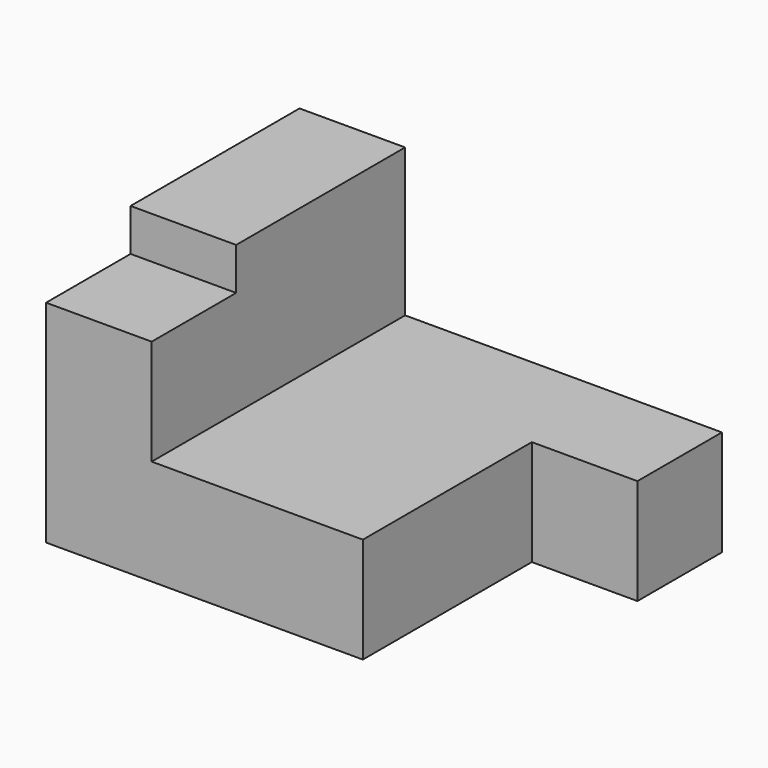
from build123d import *

# Parameters (mm, degrees)
F1_DEPTH = 38.1
F2_W     = 12.7
F2_H     = 12.7
F3_DEPTH = 5.08
F4_W     = 12.7
F4_H     = 25.4
F5_DEPTH = 12.7


with BuildPart() as f1:
    # F0 (on Front) → F1 (new body)
    with BuildSketch(Plane.XZ):
        Polygon((-77.360854, -0.949678), (-77.360854, -31.429678), (-26.560854, -31.429678), (-26.560854, -18.729678), (-64.660854, -18.729678), (-64.660854, -0.949678), align=None)
    extrude(amount=F1_DEPTH)

    # F2 (on face) → F3 (cut)
    with BuildSketch(Plane.XY.offset(-0.949678)):
        with Locations((-71.010854, -31.75)):
            Rectangle(F2_W, F2_H)
    extrude(amount=-F3_DEPTH, mode=Mode.SUBTRACT)

    # F4 (on face) → F5 (cut)
    with BuildSketch(Plane.XY.offset(-18.729678)):
        with Locations((-32.910854, -25.4)):
            Rectangle(F4_W, F4_H)
    extrude(amount=-F5_DEPTH, mode=Mode.SUBTRACT)


solid = f1.part
